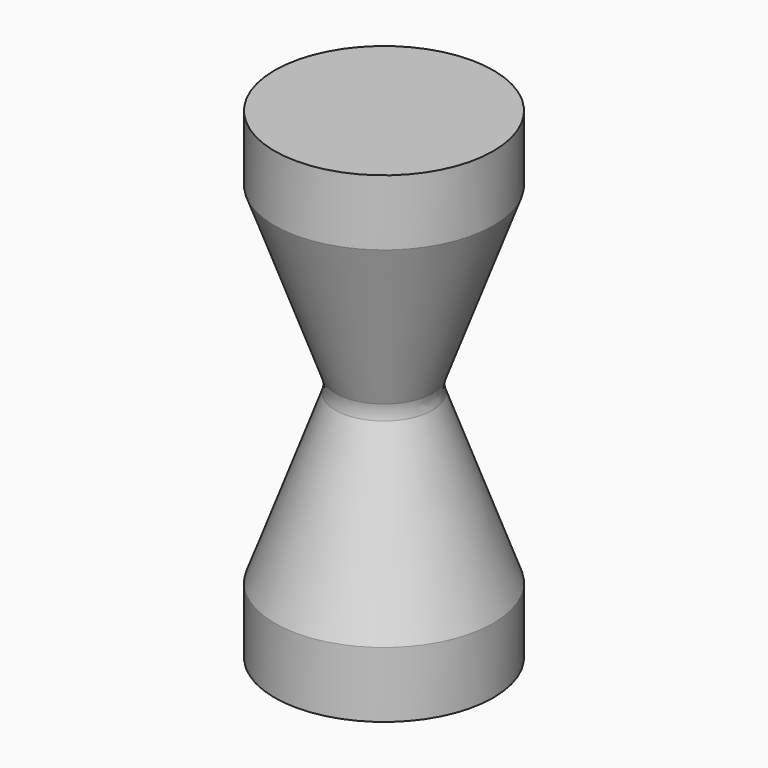
from build123d import *

# Parameters (mm, degrees)
F2_R = 5


with BuildPart() as f1:
    # F0 (on Front) → F1 (revolve)
    with BuildSketch(Plane.XZ):
        Polygon((0, 110), (0, 0), (25, 0), (25, 15), (10.441191, 55), (25, 95), (25, 110), align=None)
    revolve(axis=Axis((0, 0, 55), (0, 0, 1)))

    # F2
    f2_edges = [f1.edges().sort_by_distance(p)[0] for p in [
        (-10.441191, 0, 55),
    ]]
    fillet(f2_edges, radius=F2_R)


solid = f1.part
